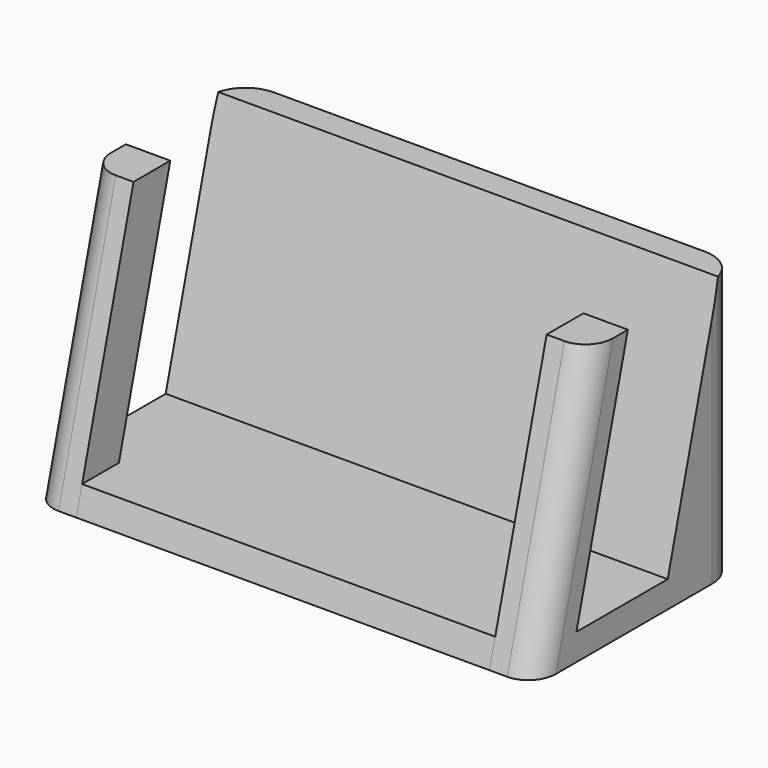
from build123d import *

# Parameters (mm, degrees)
PAD_DEPTH    = 5
PAD001_DEPTH = 51.5
PAD002_DEPTH = 5
FILLET_R     = 3
FILLET001_R  = 4
SKETCH003_R  = 0.8
HOLE_DEPTH   = 3
HOLE_TIPS_R  = 0.8


with BuildPart() as part:
    # Sketch → Pad (new body)
    with BuildSketch(Plane.YZ):
        Polygon((0, 0), (8.038476, 30), (13.214857, 30), (5.980228, 3), (18.817653, 3), (26.052281, 30), (29.052281, 30), (29.052281, 0), align=None)
    extrude(amount=PAD_DEPTH)

    # Sketch001 → Pad001 (join)
    with BuildSketch(Plane.YZ):
        Polygon((0, 0), (29.052281, 0), (29.052281, 30), (26.052281, 30), (18.817653, 3), (0.803848, 3), align=None)
    extrude(amount=PAD001_DEPTH)

    # Sketch002 (on Face14 of Pad001) → Pad002 (join)
    with BuildSketch(Plane.YZ.offset(51.5)):
        Polygon((0, 0), (8.038476, 30), (13.214857, 30), (5.980228, 3), (18.817653, 3), (26.052281, 30), (29.052281, 30), (29.052281, 0), align=None)
    extrude(amount=PAD002_DEPTH)

    # Fillet
    fillet_edges = [part.edges().sort_by_distance(p)[0] for p in [
        (0, 4.421162, 16.5),
        (0, 0.401924, 1.5),
        (56.5, 4.019238, 15),
    ]]
    fillet(fillet_edges, radius=FILLET_R)

    # Fillet001
    fillet001_edges = [part.edges().sort_by_distance(p)[0] for p in [
        (0, 29.052281, 15),
        (56.5, 29.052281, 15),
    ]]
    fillet(fillet001_edges, radius=FILLET001_R)

    # Sketch003 (on Face13 of Pad002) → Hole (cut)
    with BuildSketch(Plane.YX):
        with Locations((3, 53.5)):
            Circle(SKETCH003_R)
        with Locations((26.052281, 53.5)):
            Circle(SKETCH003_R)
        with Locations((3, 3)):
            Circle(SKETCH003_R)
        with Locations((26.052281, 3)):
            Circle(SKETCH003_R)
    extrude(amount=-HOLE_DEPTH, mode=Mode.SUBTRACT)

    # Hole tips → Hole tip 1 section 0
    with BuildSketch(Plane.YX.offset(-3), mode=Mode.PRIVATE) as hole_tip_1_s0:
        with Locations((3, 53.5)):
            Circle(HOLE_TIPS_R)
    loft([hole_tip_1_s0.sketch, Vertex(53.5, 3, 3.480688)], mode=Mode.SUBTRACT)

    # Hole tips → Hole tip 2 section 0
    with BuildSketch(Plane.YX.offset(-3), mode=Mode.PRIVATE) as hole_tip_2_s0:
        with Locations((26.052281, 53.5)):
            Circle(HOLE_TIPS_R)
    loft([hole_tip_2_s0.sketch, Vertex(53.5, 26.052281, 3.480688)], mode=Mode.SUBTRACT)

    # Hole tips → Hole tip 3 section 0
    with BuildSketch(Plane.YX.offset(-3), mode=Mode.PRIVATE) as hole_tip_3_s0:
        with Locations((3, 3)):
            Circle(HOLE_TIPS_R)
    loft([hole_tip_3_s0.sketch, Vertex(3, 3, 3.480688)], mode=Mode.SUBTRACT)

    # Hole tips → Hole tip 4 section 0
    with BuildSketch(Plane.YX.offset(-3), mode=Mode.PRIVATE) as hole_tip_4_s0:
        with Locations((26.052281, 3)):
            Circle(HOLE_TIPS_R)
    loft([hole_tip_4_s0.sketch, Vertex(3, 26.052281, 3.480688)], mode=Mode.SUBTRACT)


solid = part.part
